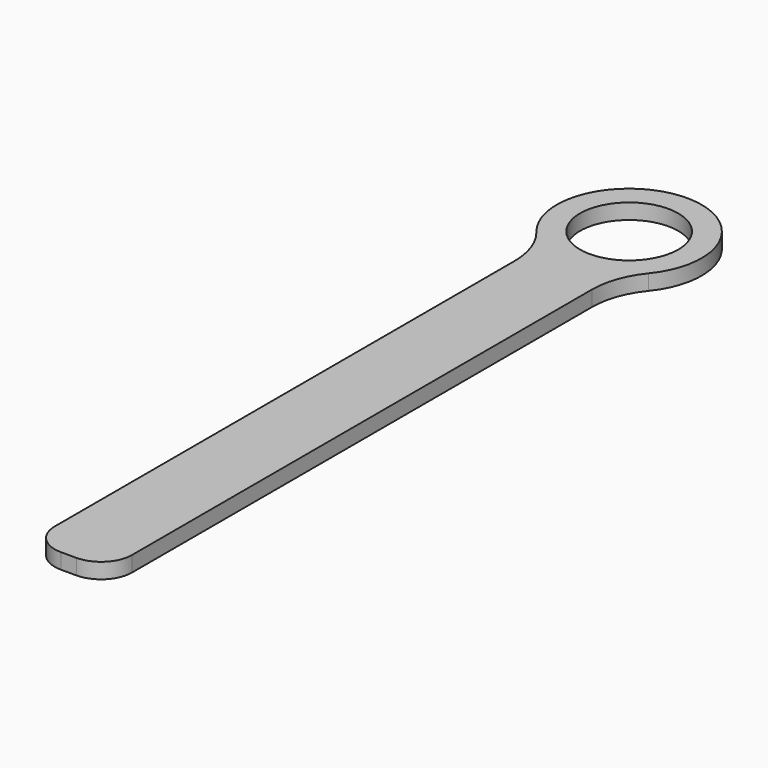
from build123d import *

# Parameters (mm, degrees)
F0_R     = 3.175
F1_DEPTH = 1


with BuildPart() as f1:
    # F0 (on Top) → F1 (new body)
    with BuildSketch(Plane.XY):
        with BuildLine():
            ThreePointArc((2.5, -6.127742), (2.790444, -4.448432), (3.628033, -2.96422))
            ThreePointArc((3.628033, -2.96422), (0, 4.685), (-3.628033, -2.96422))
            ThreePointArc((-3.628033, -2.96422), (-2.790444, -4.448432), (-2.5, -6.127742))
            Line((-2.5, -6.127742), (-2.5, -43.315))
            ThreePointArc((-2.5, -43.315), (-1.914214, -44.729214), (-0.5, -45.315))
            Line((-0.5, -45.315), (0.5, -45.315))
            ThreePointArc((0.5, -45.315), (1.914214, -44.729214), (2.5, -43.315))
            Line((2.5, -43.315), (2.5, -6.127742))
        make_face()
        Circle(F0_R, mode=Mode.SUBTRACT)
    extrude(amount=F1_DEPTH)


solid = f1.part
